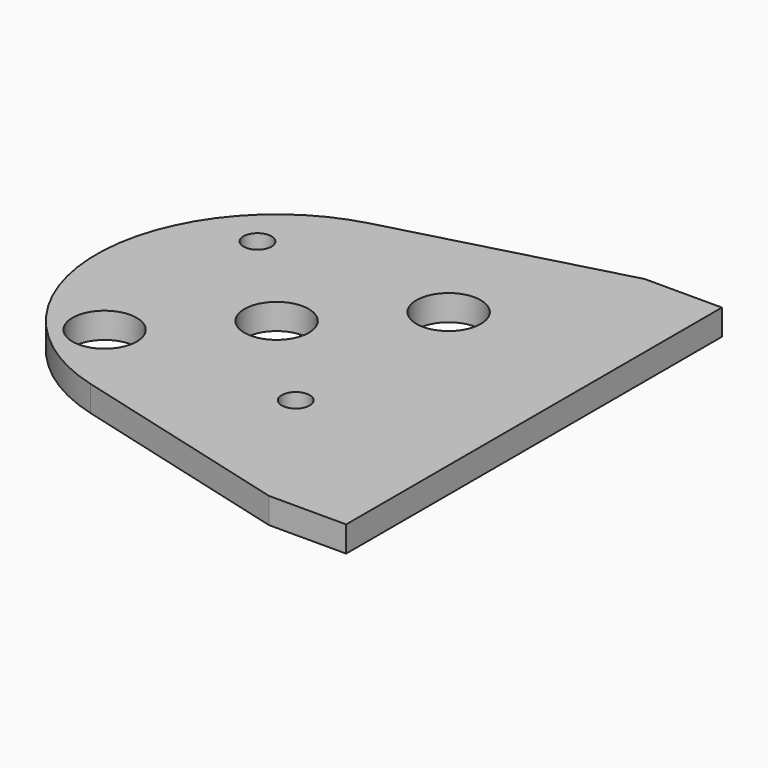
from build123d import *

# Parameters (mm, degrees)
F0_R     = 3.96875
F0_R_2   = 1.7272
F1_DEPTH = 3.175


with BuildPart() as f1:
    # F0 (on Top) → F1 (new body)
    with BuildSketch(Plane.XY):
        with BuildLine():
            Line((31.75, 28.964184), (22.225, 28.964184))
            Line((22.225, 28.964184), (-5.752253, 21.467701))
            ThreePointArc((-5.752253, 21.467701), (-22.225, 0), (-5.752253, -21.467701))
            Line((-5.752253, -21.467701), (22.225, -28.964184))
            Line((22.225, -28.964184), (31.75, -28.964184))
            Line((31.75, -28.964184), (31.75, 28.964184))
        make_face()
        with Locations((-11.786586, -11.786586)):
            Circle(F0_R, mode=Mode.SUBTRACT)
        with Locations((11.786586, -11.786586)):
            Circle(F0_R_2, mode=Mode.SUBTRACT)
        with Locations((-11.786586, 11.786586)):
            Circle(F0_R_2, mode=Mode.SUBTRACT)
        Circle(F0_R, mode=Mode.SUBTRACT)
        with Locations((11.786586, 11.786586)):
            Circle(F0_R, mode=Mode.SUBTRACT)
    extrude(amount=F1_DEPTH)


solid = f1.part
